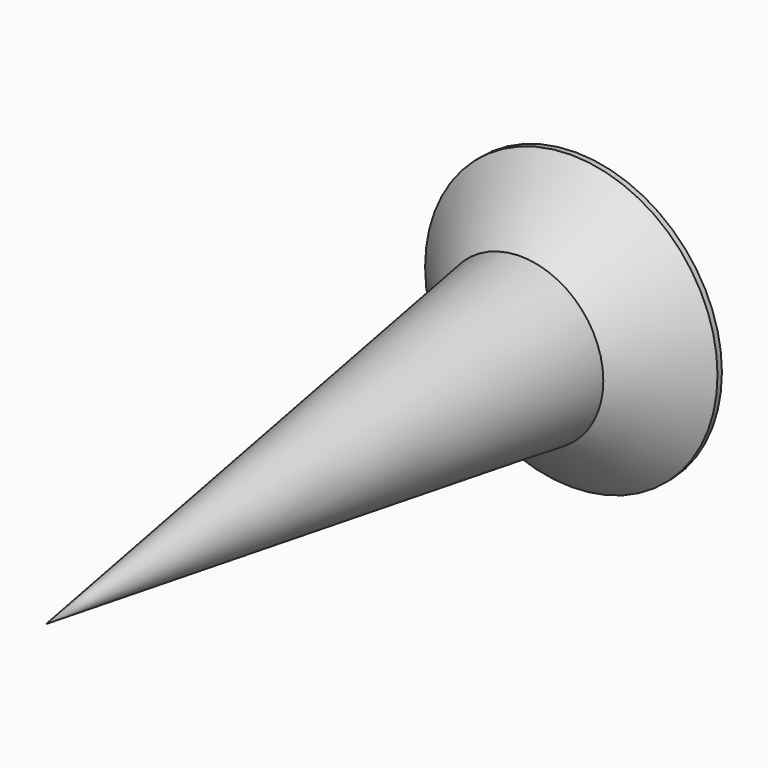
from build123d import *

# Parameters (mm, degrees)
POCKET021_DEPTH         = 0.3
POLARPATTERN003_COUNT   = 2
POLARPATTERN003_ANGLE   = 90
BODY018_PLACEMENT_ANGLE = 90


with BuildPart() as part:
    # Sketch097 → Revolution006 (revolve)
    with BuildSketch(Plane.XZ):
        Polygon((0, 0), (0, -12), (1.5, -1.25), (2.65, -0.1), (2.65, 0), align=None)
    revolve(axis=Axis((0, 0, 0), (0, 0, 1)))

    # Sketch096 → Pocket021 (cut, symmetric)
    with BuildSketch(Plane.XZ):
        Polygon((-2, 0), (0, -2), (2, 0), align=None)
    pocket021 = extrude(amount=POCKET021_DEPTH, both=True, mode=Mode.SUBTRACT)

    # PolarPattern003: Pocket021 ×2 about axis
    polarpattern003_axis = Axis((0, 0, 0), (0, 0, 1))
    for i in range(1, POLARPATTERN003_COUNT):
        add(pocket021.rotate(polarpattern003_axis, i * POLARPATTERN003_ANGLE / (POLARPATTERN003_COUNT - 1)), mode=Mode.SUBTRACT)


with BuildPart() as part_1:
    # Body018 placement: moved
    add(part.part.moved(Location((-40, -5.8, 30))).rotate(Axis((-40, -5.8, 30), (-1, 0, 0)), BODY018_PLACEMENT_ANGLE))


solid = part_1.part
